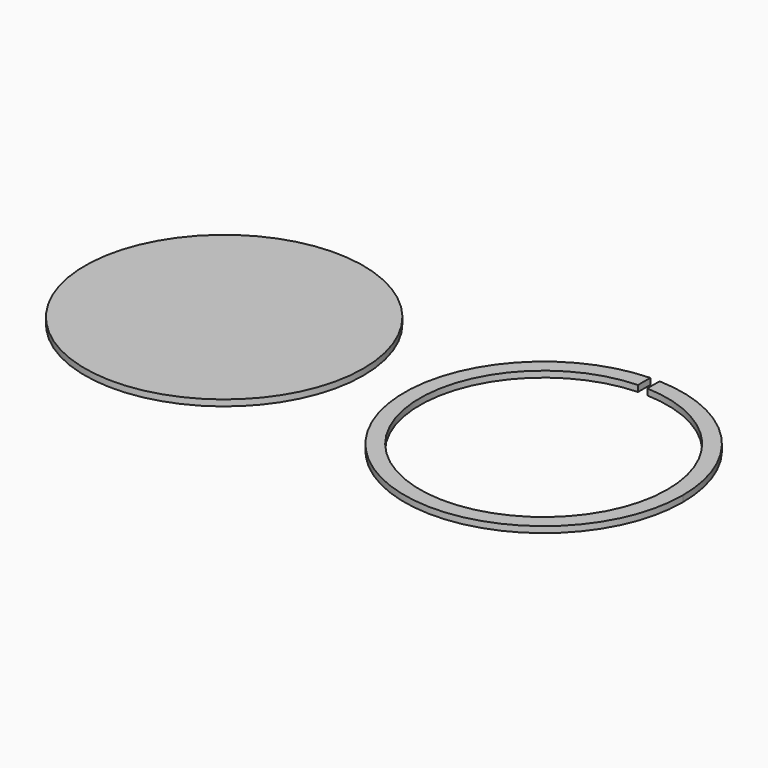
from build123d import *

# Parameters (mm, degrees)
F0_R     = 45.135
F2_DEPTH = 2
F3_DEPTH = 2


with BuildPart() as f2:
    # F0 (on Top) → F2 (new body)
    with BuildSketch(Plane.XY):
        with Locations((-23.496836, 18.085442)):
            Circle(F0_R)
    extrude(amount=F2_DEPTH)


with BuildPart() as f3:
    # F1 (on Top) → F3 (new body)
    with BuildSketch(Plane.XY):
        with BuildLine():
            ThreePointArc((81.555787, 59.478511), (51.675334, -18.072817), (128.190787, 14.368443))
            ThreePointArc((128.190787, 14.368443), (115.497047, 45.748897), (84.555787, 59.478511))
            Line((84.555787, 59.478511), (84.555787, 54.475403))
            ThreePointArc((84.555787, 54.475403), (111.960983, 42.212794), (123.190787, 14.368443))
            ThreePointArc((123.190787, 14.368443), (55.211437, -14.536753), (81.555787, 54.475403))
            Line((81.555787, 54.475403), (81.555787, 59.478511))
        make_face()
    extrude(amount=F3_DEPTH)


solid = Compound([f2.part, f3.part])
